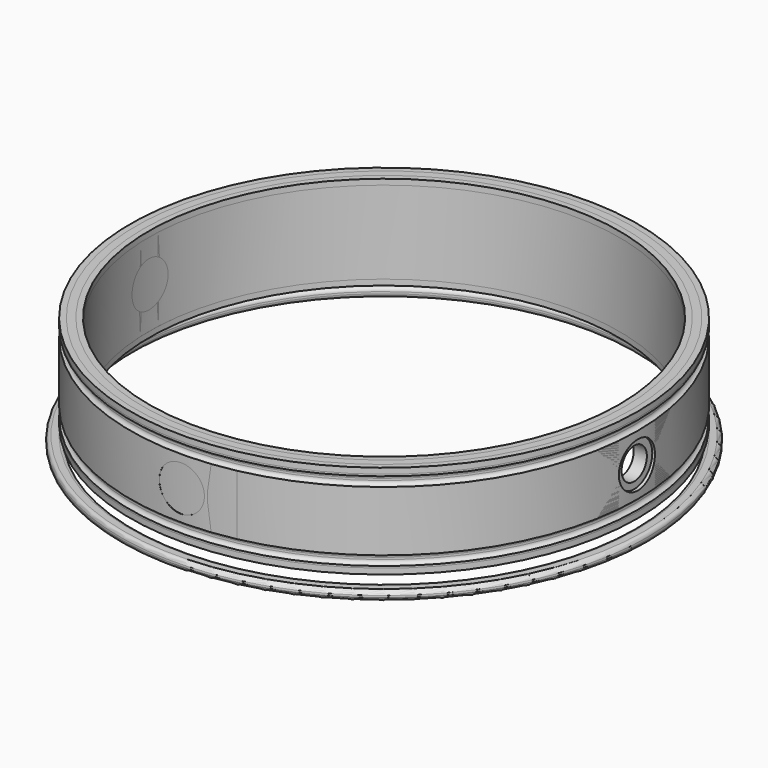
from build123d import *

# Parameters (mm, degrees)
SKETCH005_R               = 140.350312
SKETCH005_R_2             = 133
EXTRUDE011_DEPTH          = 5
EXTRUDE010_DEPTH          = 5
EXTRUDE008_DEPTH          = 5
EXTRUDE009_DEPTH          = 5
SKETCH004_R               = 157.293563
EXTRUDE007_DEPTH          = 50
SKETCH003_R               = 12
EXTRUDE004_DEPTH          = 10
EXTRUDE005_DEPTH          = 10
EXTRUDE006_DEPTH          = 10
EXTRUDE002_DEPTH          = 10
SKETCH002_R               = 8.4
EXTRUDE_DEPTH             = 150
SKETCH_R                  = 134.952227
SKETCH_R_2                = 125
EXTRUDE001_DEPTH          = 50
FILLET002_R               = 2
EXTRUDE013_DEPTH          = 10
EXTRUDE015_DEPTH          = 10
EXTRUDE016_DEPTH          = 10
EXTRUDE017_DEPTH          = 10
EXTRUDE014_DEPTH          = 150
FUSION002_PLACEMENT_ANGLE = 90
FILLET001_R               = 2
FILLET_R                  = 2
EXTRUDE012_DEPTH          = 50
FILLET003_R               = 3
EXTRUDE018_DEPTH          = 30
COMMON_PLACEMENT_ANGLE    = 40
COMMON001_PLACEMENT_ANGLE = -40


with BuildPart() as extrude011:
    # Sketch005 → Extrude011 (new body)
    with BuildSketch(Plane.XY):
        Circle(SKETCH005_R)
        Circle(SKETCH005_R_2, mode=Mode.SUBTRACT)
    extrude(amount=EXTRUDE011_DEPTH)


with BuildPart() as extrude011_1:
    # Extrude011 placement: moved
    add(extrude011.part.moved(Location((0, 0, -35))))


with BuildPart() as extrude010:
    # Sketch005 → Extrude010 (new body)
    with BuildSketch(Plane.XY):
        Circle(SKETCH005_R)
        Circle(SKETCH005_R_2, mode=Mode.SUBTRACT)
    extrude(amount=EXTRUDE010_DEPTH)


with BuildPart() as extrude010_1:
    # Extrude010 placement: moved
    add(extrude010.part.moved(Location((0, 0, -21))))


with BuildPart() as extrude008:
    # Sketch005 → Extrude008 (new body)
    with BuildSketch(Plane.XY):
        Circle(SKETCH005_R)
        Circle(SKETCH005_R_2, mode=Mode.SUBTRACT)
    extrude(amount=EXTRUDE008_DEPTH)


with BuildPart() as extrude008_1:
    # Extrude008 placement: moved
    add(extrude008.part.moved(Location((0, 0, 16))))


with BuildPart() as extrude009:
    # Sketch005 → Extrude009 (new body)
    with BuildSketch(Plane.XY):
        Circle(SKETCH005_R)
        Circle(SKETCH005_R_2, mode=Mode.SUBTRACT)
    extrude(amount=EXTRUDE009_DEPTH)


with BuildPart() as extrude009_1:
    # Extrude009 placement: moved
    add(extrude009.part.moved(Location((0, 0, 30))))


with BuildPart() as extrude007:
    # Sketch004 → Extrude007 (new body)
    with BuildSketch(Plane.XY):
        Circle(SKETCH004_R)
    extrude(amount=EXTRUDE007_DEPTH)


with BuildPart() as extrude007_1:
    # Extrude007 placement: moved
    add(extrude007.part.moved(Location((0, 0, 51))))


with BuildPart() as extrude004:
    # Sketch003 (on Face3 of Extrude) → Extrude004 (new body)
    with BuildSketch(Plane.YZ.offset(150)):
        Circle(SKETCH003_R)
    extrude(amount=-EXTRUDE004_DEPTH)


with BuildPart() as extrude004_1:
    # Extrude004 placement: moved
    add(extrude004.part.moved(Location((-283, 0, 0))))


with BuildPart() as extrude005:
    # Sketch003 (on Face3 of Extrude) → Extrude005 (new body)
    with BuildSketch(Plane.YZ.offset(150)):
        Circle(SKETCH003_R)
    extrude(amount=-EXTRUDE005_DEPTH)


with BuildPart() as extrude005_1:
    # Extrude005 placement: moved
    add(extrude005.part.moved(Location((-266, 0, 0))))


with BuildPart() as extrude006:
    # Sketch003 (on Face3 of Extrude) → Extrude006 (new body)
    with BuildSketch(Plane.YZ.offset(150)):
        Circle(SKETCH003_R)
    extrude(amount=-EXTRUDE006_DEPTH)


with BuildPart() as extrude006_1:
    # Extrude006 placement: moved
    add(extrude006.part.moved(Location((-24, 0, 0))))


with BuildPart() as extrude002:
    # Sketch003 (on Face3 of Extrude) → Extrude002 (new body)
    with BuildSketch(Plane.YZ.offset(150)):
        Circle(SKETCH003_R)
    extrude(amount=-EXTRUDE002_DEPTH)


with BuildPart() as extrude002_1:
    # Extrude002 placement: moved
    add(extrude002.part.moved(Location((-7, 0, 0))))


with BuildPart() as extrude_body:
    # Sketch002 → Extrude (new body, symmetric)
    with BuildSketch(Plane.YZ):
        Circle(SKETCH002_R)
    extrude(amount=EXTRUDE_DEPTH, both=True)


with BuildPart() as cut009:
    # Sketch → Extrude001 (new body)
    with BuildSketch(Plane.XY):
        Circle(SKETCH_R)
        Circle(SKETCH_R_2, mode=Mode.SUBTRACT)
    extrude(amount=EXTRUDE001_DEPTH)


with BuildPart() as cut009_1:
    # Extrude001 placement: moved
    add(cut009.part.moved(Location((0, 0, -25))))

    # Cut: cut Extrude body
    add(extrude_body.part, mode=Mode.SUBTRACT)

    # Cut001: cut Extrude002
    add(extrude002_1.part, mode=Mode.SUBTRACT)

    # Cut002: cut Extrude006
    add(extrude006_1.part, mode=Mode.SUBTRACT)

    # Cut003: cut Extrude005
    add(extrude005_1.part, mode=Mode.SUBTRACT)

    # Cut004: cut Extrude004
    add(extrude004_1.part, mode=Mode.SUBTRACT)

    # Cut005: cut Extrude007
    add(extrude007_1.part, mode=Mode.SUBTRACT)

    # Cut006: cut Extrude009
    add(extrude009_1.part, mode=Mode.SUBTRACT)

    # Cut007: cut Extrude008
    add(extrude008_1.part, mode=Mode.SUBTRACT)

    # Cut008: cut Extrude010
    add(extrude010_1.part, mode=Mode.SUBTRACT)

    # Cut009: cut Extrude011
    add(extrude011_1.part, mode=Mode.SUBTRACT)


with BuildPart() as fillet002:
    # Fillet002 base: copy of Extrude011
    add(extrude011_1.part)

    # Fillet002
    fillet002_edges = [fillet002.edges().sort_by_distance(p)[0] for p in [
        (-140.350312, 0, -35),
        (-140.350312, 0, -30),
        (-133, 0, -35),
        (-133, 0, -30),
    ]]
    fillet(fillet002_edges, radius=FILLET002_R)


with BuildPart() as extrude013:
    # Sketch003 (on Face3 of Extrude) → Extrude013 (new body)
    with BuildSketch(Plane.YZ.offset(150)):
        Circle(SKETCH003_R)
    extrude(amount=-EXTRUDE013_DEPTH)


with BuildPart() as extrude013_1:
    # Extrude013 placement: moved
    add(extrude013.part.moved(Location((-283, 0, 0))))


with BuildPart() as extrude015:
    # Sketch003 (on Face3 of Extrude) → Extrude015 (new body)
    with BuildSketch(Plane.YZ.offset(150)):
        Circle(SKETCH003_R)
    extrude(amount=-EXTRUDE015_DEPTH)


with BuildPart() as extrude015_1:
    # Extrude015 placement: moved
    add(extrude015.part.moved(Location((-7, 0, 0))))


with BuildPart() as extrude016:
    # Sketch003 (on Face3 of Extrude) → Extrude016 (new body)
    with BuildSketch(Plane.YZ.offset(150)):
        Circle(SKETCH003_R)
    extrude(amount=-EXTRUDE016_DEPTH)


with BuildPart() as extrude016_1:
    # Extrude016 placement: moved
    add(extrude016.part.moved(Location((-24, 0, 0))))


with BuildPart() as extrude017:
    # Sketch003 (on Face3 of Extrude) → Extrude017 (new body)
    with BuildSketch(Plane.YZ.offset(150)):
        Circle(SKETCH003_R)
    extrude(amount=-EXTRUDE017_DEPTH)


with BuildPart() as extrude017_1:
    # Extrude017 placement: moved
    add(extrude017.part.moved(Location((-266, 0, 0))))


with BuildPart() as fusion:
    # Sketch002 → Extrude014 (new body, symmetric)
    with BuildSketch(Plane.YZ):
        Circle(SKETCH002_R)
    extrude(amount=EXTRUDE014_DEPTH, both=True)

    # Fusion: union Extrude015, Extrude016, Extrude017
    add(extrude015_1.part)
    add(extrude016_1.part)
    add(extrude017_1.part)


with BuildPart() as fusion002:
    # Fusion002 base: copy of Fusion
    add(fusion.part)

    # Fusion002: union Extrude013
    add(extrude013_1.part)


with BuildPart() as fusion002_1:
    # Fusion002 placement: moved
    add(fusion002.part.rotate(Axis((0, 0, 0), (0, 0, 1)), FUSION002_PLACEMENT_ANGLE))


with BuildPart() as fusion001:
    # Fusion001 base: copy of Fusion
    add(fusion.part)

    # Fusion001: union Extrude013
    add(extrude013_1.part)


with BuildPart() as fillet001:
    # Fillet001 base: copy of Extrude010
    add(extrude010_1.part)

    # Fillet001
    fillet001_edges = [fillet001.edges().sort_by_distance(p)[0] for p in [
        (-140.350312, 0, -21),
        (-140.350312, 0, -16),
        (-133, 0, -21),
        (-133, 0, -16),
    ]]
    fillet(fillet001_edges, radius=FILLET001_R)


with BuildPart() as fillet_body:
    # Fillet base: copy of Extrude008
    add(extrude008_1.part)

    # Fillet
    fillet_edges = [fillet_body.edges().sort_by_distance(p)[0] for p in [
        (-140.350312, 0, 16),
        (-140.350312, 0, 21),
        (-133, 0, 16),
        (-133, 0, 21),
    ]]
    fillet(fillet_edges, radius=FILLET_R)


with BuildPart() as fillet003:
    # Sketch → Extrude012 (new body)
    with BuildSketch(Plane.XY):
        Circle(SKETCH_R)
        Circle(SKETCH_R_2, mode=Mode.SUBTRACT)
    extrude(amount=EXTRUDE012_DEPTH)


with BuildPart() as fillet003_1:
    # Extrude012 placement: moved
    add(fillet003.part.moved(Location((0, 0, -25))))

    # Cut010: cut Fillet body
    add(fillet_body.part, mode=Mode.SUBTRACT)

    # Cut011: cut Fillet001
    add(fillet001.part, mode=Mode.SUBTRACT)

    # Cut012: cut Fusion001
    add(fusion001.part, mode=Mode.SUBTRACT)

    # Fillet003
    fillet003_edges = [fillet003_1.edges().sort_by_distance(p)[0] for p in [
        (-134.952227, 0, -25),
        (-125, 0, -25),
        (-125, 0, 25),
        (-134.952227, 0, 25),
    ]]
    fillet(fillet003_edges, radius=FILLET003_R)


with BuildPart() as cut014:
    # Cut014 base: copy of Fillet003
    add(fillet003_1.part)

    # Cut014: cut Fusion002
    add(fusion002_1.part, mode=Mode.SUBTRACT)


with BuildPart() as extrude018:
    # Sketch006 → Extrude018 (new body, symmetric)
    with BuildSketch(Plane.XY):
        Polygon((0, 0), (-200.551956, 60.796108), (-42.292362, 152.210892), align=None)
    extrude(amount=EXTRUDE018_DEPTH, both=True)


with BuildPart() as common:
    # Common base: copy of Extrude018
    add(extrude018.part)

    # Common: intersect Cut014
    add(cut014.part, mode=Mode.INTERSECT)


with BuildPart() as common_1:
    # Common placement: moved
    add(common.part.rotate(Axis((0, 0, 0), (0, 0, 1)), COMMON_PLACEMENT_ANGLE))


with BuildPart() as common001:
    # Common001 base: copy of Extrude018
    add(extrude018.part)

    # Common001: intersect Cut014
    add(cut014.part, mode=Mode.INTERSECT)


with BuildPart() as common001_1:
    # Common001 placement: moved
    add(common001.part.rotate(Axis((0, 0, 0), (0, 0, 1)), COMMON001_PLACEMENT_ANGLE))


with BuildPart() as fusion003:
    # Cut013 base: copy of Fillet003
    add(fillet003_1.part)

    # Cut013: cut Fusion002
    add(fusion002_1.part, mode=Mode.SUBTRACT)

    # Fusion003: union Common, Common001
    add(common_1.part)
    add(common001_1.part)


solid = Compound([cut009_1.part, fillet002.part, fusion003.part])
